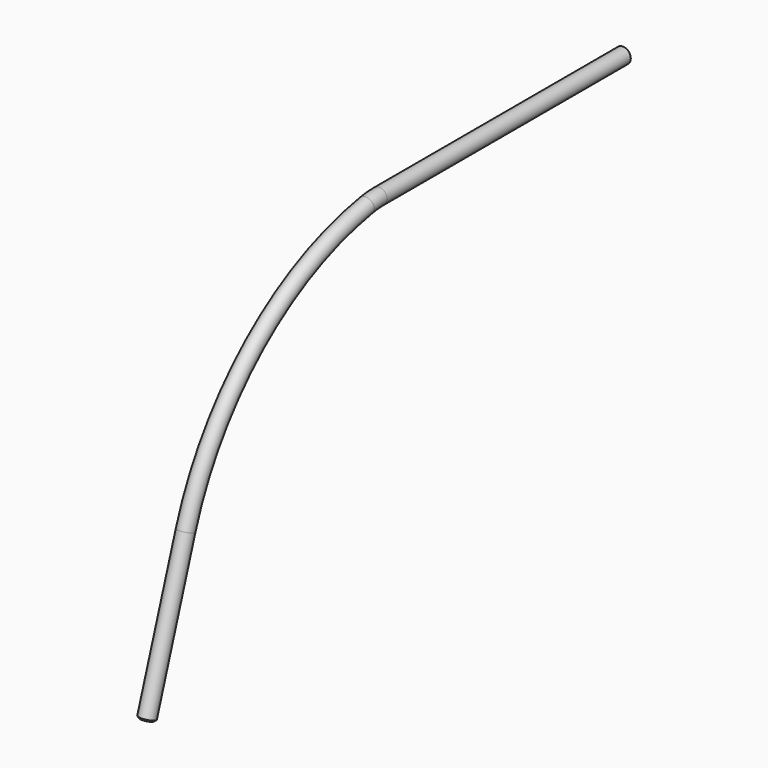
from build123d import *

# Parameters (mm, degrees)
F2_R    = 5
F4_SIZE = 1


with BuildPart() as f3:
    # F3: sweep along a path in F0
    with BuildLine(Plane.YZ) as f3_path:
        Line((184.972679615, 68.1330226362), (-10.4408697825, 68.1330226362))
        ThreePointArc((-10.4408697825, 68.1330226362), (-15.5088271138, 67.9186045811), (-20.5405623934, 67.2768829191))
        ThreePointArc((-20.5405623934, 67.2768829191), (-109.9856046606, 25.2253754751), (-165.027320385, -56.8669773638))
        Line((-165.027320385, -56.8669773638), (-196.1377699088, -150.6511997085))
    # F2 (on plane+point) → F3 (sweep)
    with BuildSketch(Plane.XZ.offset(-184.972679615)):
        with Locations((0, 67.9594129324)):
            Circle(F2_R)
    sweep(path=f3_path.line)

    # F4
    f4_edges = [f3.edges().sort_by_distance(p)[0] for p in [
        (-5, 184.97268, 67.959413),
        (-5, -195.97299, -150.705861),
    ]]
    chamfer(f4_edges, length=F4_SIZE)


solid = f3.part
